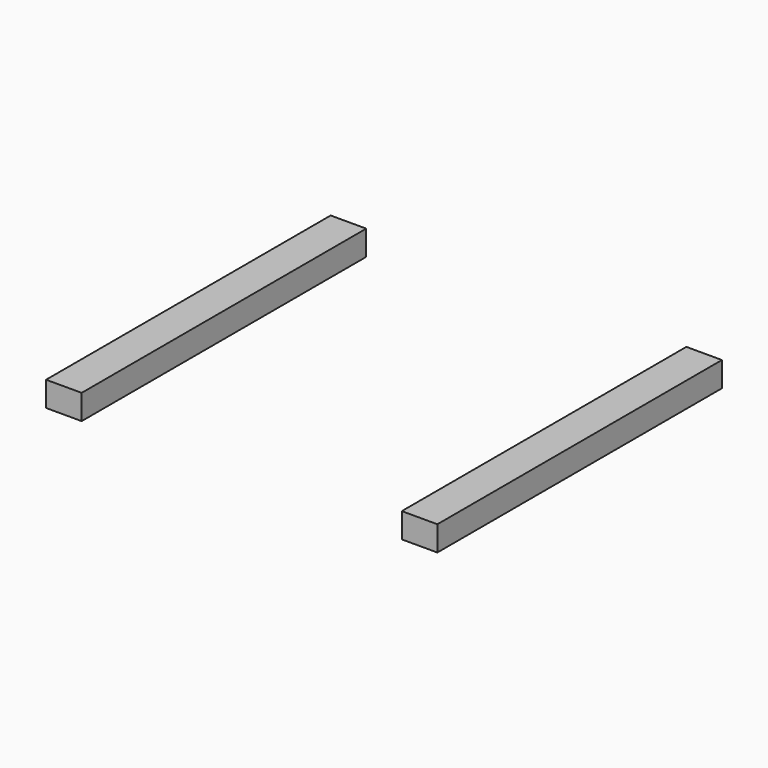
from build123d import *

# Parameters (mm, degrees)
SKETCH_W     = 50
SKETCH_H     = 500
PAD_DEPTH    = 35
SKETCH001_W  = 50
SKETCH001_H  = 500
PAD001_DEPTH = 35


with BuildPart() as obj1:
    # Sketch → Pad (new body)
    with BuildSketch(Plane.XY):
        with Locations((25, 250)):
            Rectangle(SKETCH_W, SKETCH_H)
    extrude(amount=PAD_DEPTH)


with BuildPart() as obj2:
    # Sketch001 → Pad001 (new body)
    with BuildSketch(Plane.XY):
        with Locations((25, 250)):
            Rectangle(SKETCH001_W, SKETCH001_H)
    extrude(amount=PAD001_DEPTH)


with BuildPart() as obj2_1:
    # Body001 placement: moved
    add(obj2.part.moved(Location((500, 0, 0))))


solid = Compound([obj1.part, obj2_1.part])
